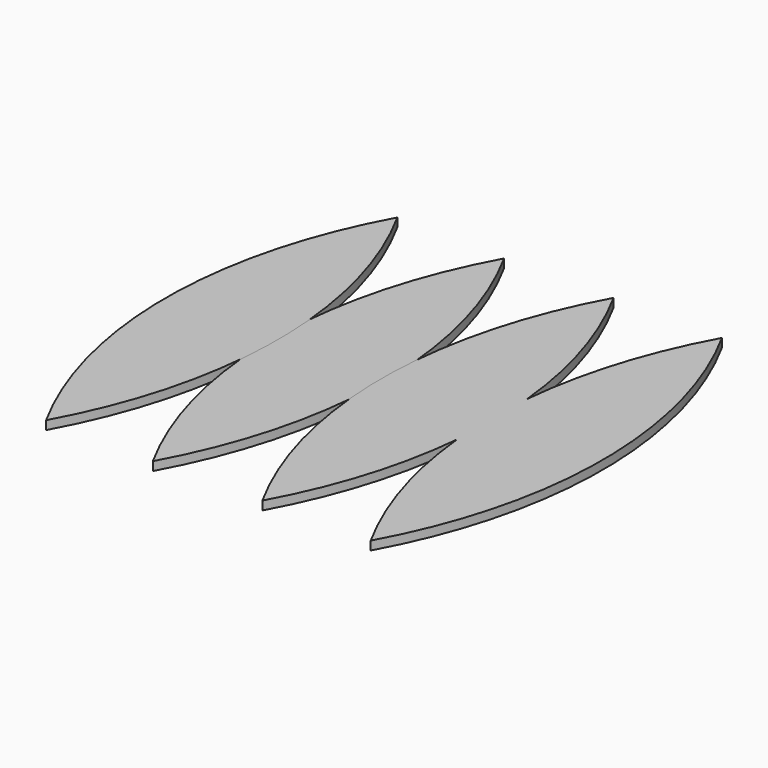
from build123d import *

# Parameters (mm, degrees)
F3_DEPTH = 6.35


with BuildPart() as f3:
    # F1 (on Top) → F3 (new body)
    with BuildSketch(Plane.XY):
        with BuildLine():
            ThreePointArc((-39.5274765587, -160.4956500232), (1.3581742908, -0.9836500232), (-39.5274765587, 158.5283499768))
            Line((-39.5274765587, 158.5283499768), (-39.5274765587, -160.4956500232))
        make_face()
        with BuildLine():
            Line((-39.5274765587, -160.4956500232), (-39.5274765587, 158.5283499768))
            ThreePointArc((-39.5274765587, 158.5283499768), (-80.4119241846, -0.9836500232), (-39.5274765587, -160.4956500232))
        make_face()
    extrude(amount=F3_DEPTH)


with BuildPart() as f3b:
    # F2 (on Top) → F3, piece 2 (new body)
    with BuildSketch(Plane.XY):
        with BuildLine():
            ThreePointArc((78.5831054185, 31.6624580086), (65.4118171523, 97.5931812681), (39.2125234413, 159.512))
            Line((39.2125234413, 159.512), (39.2125234413, -159.512))
            ThreePointArc((39.2125234413, -159.512), (65.4118171523, -97.5931812681), (78.5831054185, -31.6624580086))
            ThreePointArc((78.5831054185, -31.6624580086), (77.0680758154, 0), (78.5831054185, 31.6624580086))
        make_face()
        with BuildLine():
            Line((39.2125234413, -159.512), (39.2125234413, 159.512))
            ThreePointArc((39.2125234413, 159.512), (-1.6719241846, 0), (39.2125234413, -159.512))
        make_face()
        with BuildLine():
            ThreePointArc((117.9525234413, 159.512), (91.7540003297, 97.5930638805), (78.5831054185, 31.6624580086))
            ThreePointArc((78.5831054185, 31.6624580086), (80.0981742908, 0), (78.5831054185, -31.6624580086))
            ThreePointArc((78.5831054185, -31.6624580086), (91.7540003297, -97.5930638805), (117.9525234413, -159.512))
            Line((117.9525234413, -159.512), (117.9525234413, 159.512))
        make_face()
        with BuildLine():
            ThreePointArc((78.5831054185, -31.6624580086), (80.0981742908, 0), (78.5831054185, 31.6624580086))
            ThreePointArc((78.5831054185, 31.6624580086), (77.0680758154, 0), (78.5831054185, -31.6624580086))
        make_face()
        with BuildLine():
            ThreePointArc((117.9525234413, -159.512), (158.8381742908, 0), (117.9525234413, 159.512))
            Line((117.9525234413, 159.512), (117.9525234413, -159.512))
        make_face()
    extrude(amount=F3_DEPTH)


with BuildPart() as f3c:
    # F0 (on Top) → F3, piece 3 (new body)
    with BuildSketch(Plane.XY):
        with BuildLine():
            ThreePointArc((-118.2674765587, -159.0134054422), (-77.3818257092, 0.4985945578), (-118.2674765587, 160.0105945578))
            Line((-118.2674765587, 160.0105945578), (-118.2674765587, -159.0134054422))
        make_face()
        with BuildLine():
            Line((-118.2674765587, -159.0134054422), (-118.2674765587, 160.0105945578))
            ThreePointArc((-118.2674765587, 160.0105945578), (-159.1519241846, 0.4985945578), (-118.2674765587, -159.0134054422))
        make_face()
    extrude(amount=F3_DEPTH)


solid = Compound([f3.part, f3b.part, f3c.part])
